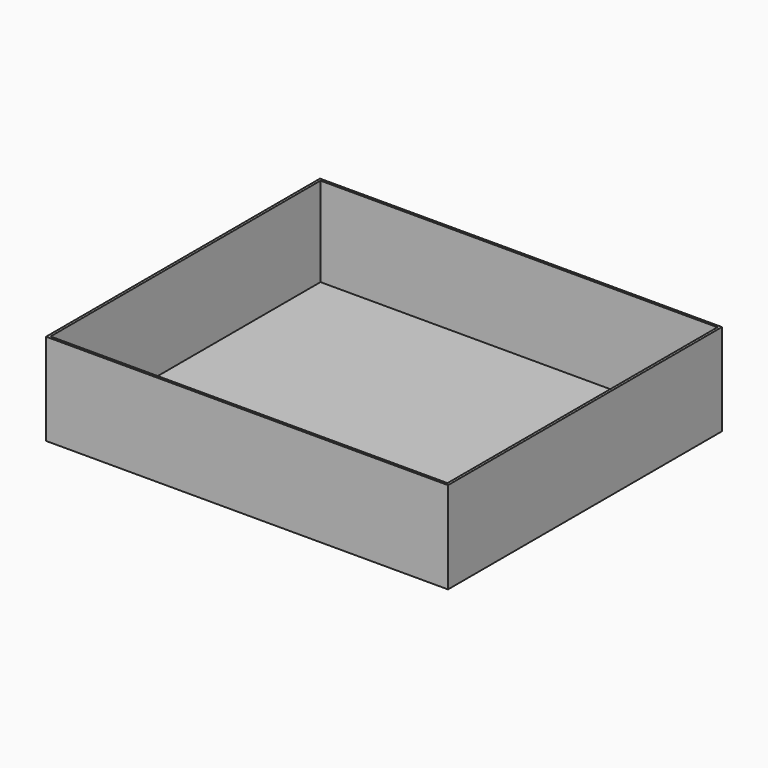
from build123d import *

# Parameters (mm, degrees)
F0_W     = 508
F0_H     = 431.8
F1_DEPTH = 114.3
F2_T     = 3.175


with BuildPart() as f1:
    # F0 (on Top) → F1 (new body)
    with BuildSketch(Plane.XY):
        Rectangle(F0_W, F0_H)
    extrude(amount=F1_DEPTH)

    # F2
    f2_openings = [f1.faces().sort_by_distance(p)[0] for p in [
        (0, 0, 114.3),
    ]]
    offset(amount=F2_T, openings=f2_openings, kind=Kind.INTERSECTION)


solid = f1.part
